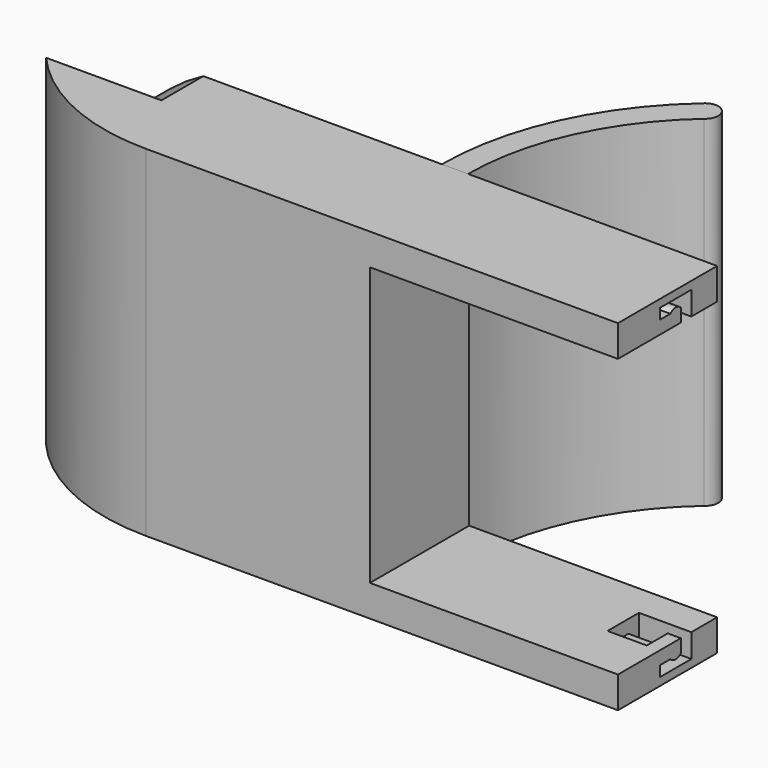
from build123d import *

# Parameters (mm, degrees)
F1_DEPTH  = 65
F2_W      = 45
F2_H      = 53
F3_DEPTH  = 13.648540618
F4_W      = 53
F4_H      = 53
F5_DEPTH  = 7.5
F7_DEPTH  = 10
F9_DEPTH  = 10
F10_W     = 7.5
F10_H     = 5
F11_DEPTH = 3
F13_DEPTH = 10
F14_W     = 7.5
F14_H     = 5
F15_DEPTH = 3
F17_DEPTH = 10
F19_DEPTH = 10
F20_W     = 6
F20_H     = 53
F21_DEPTH = 17.5
F23_DEPTH = 65
F24_W     = 2.3
F24_H     = 53
F25_DEPTH = 25


with BuildPart() as f1:
    # F0 (on Top) → F1 (new body)
    with BuildSketch(Plane.XY):
        with BuildLine():
            Line((45, -6.823770309), (45, 6.823770309))
            Line((45, 6.823770309), (-45, 6.823770309))
            Line((-45, 6.823770309), (-75, 6.823770309))
            ThreePointArc((-75, 6.823770309), (-61.4791941924, -3.2515620956), (-45, -6.823770309))
            Line((-45, -6.823770309), (45, -6.823770309))
        make_face()
    extrude(amount=F1_DEPTH)

    # F2 (on face) → F3 (cut, through all)
    with BuildSketch(Plane(origin=(0, 6.823770309, 0), x_dir=(-1, 0, 0), z_dir=(0, 1, 0))):
        with Locations((-22.5, 32.5)):
            Rectangle(F2_W, F2_H)
    extrude(amount=-F3_DEPTH, mode=Mode.SUBTRACT)

    # F4 (on face) → F5 (cut)
    with BuildSketch(Plane(origin=(0, 6.823770309, 0), x_dir=(-1, 0, 0), z_dir=(0, 1, 0))):
        with Locations((26.5, 32.5)):
            Rectangle(F4_W, F4_H)
    extrude(amount=-F5_DEPTH, mode=Mode.SUBTRACT)

    # F6 (on face) → F7 (join)
    with BuildSketch(Plane(origin=(0, 6.823770309, 0), x_dir=(-1, 0, 0), z_dir=(0, 1, 0))):
        with BuildLine():
            Line((53, 65), (-45, 65))
            Line((-45, 65), (-45, 59))
            Line((-45, 59), (53, 59))
            ThreePointArc((53, 59), (65.4386821775, 32.5), (53, 6))
            Line((53, 6), (-45, 6))
            Line((-45, 6), (-45, 0))
            Line((-45, 0), (53, 0))
            ThreePointArc((53, 0), (72.7213830352, 32.5), (53, 65))
        make_face()
    extrude(amount=F7_DEPTH)

    # F8 (on face) → F9 (cut)
    with BuildSketch(Plane.YZ.offset(45)):
        Polygon((8.176229691, 59), (10.676229691, 59), (10.676229691, 63.5), (3.176229691, 63.5), (3.176229691, 61.5), (8.176229691, 61.5), align=None)
    extrude(amount=-F9_DEPTH, mode=Mode.SUBTRACT)

    # F10 (on face) → F11 (cut)
    with BuildSketch(Plane(origin=(0, 0, 59), x_dir=(1, 0, 0), z_dir=(0, 0, -1))):
        with Locations((38.75, -5.676229691)):
            Rectangle(F10_W, F10_H)
    extrude(amount=-F11_DEPTH, mode=Mode.SUBTRACT)

    # F12 (on face) → F13 (cut)
    with BuildSketch(Plane.YZ.offset(45)):
        Polygon((10.676229691, 1.5), (10.676229691, 6), (8.176229691, 6), (8.176229691, 3.5), (3.176229691, 3.5), (3.176229691, 1.5), align=None)
    extrude(amount=-F13_DEPTH, mode=Mode.SUBTRACT)

    # F14 (on face) → F15 (cut)
    with BuildSketch(Plane.XY.offset(6)):
        with Locations((38.75, 5.676229691)):
            Rectangle(F14_W, F14_H)
    extrude(amount=-F15_DEPTH, mode=Mode.SUBTRACT)

    # F16 (on face) → F17 (join)
    with BuildSketch(Plane.YZ.offset(35)):
        with BuildLine():
            Line((8.176229691, 3.5), (5.676229691, 3.5))
            ThreePointArc((5.676229691, 3.5), (6.926229691, 2.9521718622), (8.176229691, 3.5))
        make_face()
    extrude(amount=F17_DEPTH)

    # F18 (on face) → F19 (join)
    with BuildSketch(Plane.YZ.offset(35)):
        with BuildLine():
            Line((5.676229691, 61.5), (8.176229691, 61.5))
            ThreePointArc((8.176229691, 61.5), (6.926229691, 62.0478281378), (5.676229691, 61.5))
        make_face()
    extrude(amount=F19_DEPTH)

    # F20 (on face) → F21 (join)
    with BuildSketch(Plane(origin=(0, -0.676229691, 0), x_dir=(-1, 0, 0), z_dir=(0, 1, 0))):
        with Locations((3, 32.5)):
            Rectangle(F20_W, F20_H)
    extrude(amount=F21_DEPTH)

    # F24 (on face) → F25 (cut)
    with BuildSketch(Plane.XZ.offset(6.823770309)):
        with Locations((-1.15, 32.5)):
            Rectangle(F24_W, F24_H)
    extrude(amount=-F25_DEPTH, mode=Mode.SUBTRACT)


with BuildPart() as f23:
    # F22 (on face) → F23 (new body)
    with BuildSketch(Plane(origin=(0, 0, 0), x_dir=(1, 0, 0), z_dir=(0, 0, -1))):
        with BuildLine():
            ThreePointArc((13.8182450683, -52.6559926707), (1.7716333916, -36.5102712772), (-2.5, -16.823770309))
            Line((-2.5, -16.823770309), (-7.5, -16.823770309))
            ThreePointArc((-7.5, -16.823770309), (-2.7787209882, -38.582534537), (10.5359550755, -56.4278055509))
            ThreePointArc((10.5359550755, -56.4278055509), (14.2757822044, -56.3682048106), (13.8182450683, -52.6559926707))
        make_face()
    extrude(amount=-F23_DEPTH)


solid = Compound([f1.part, f23.part])
